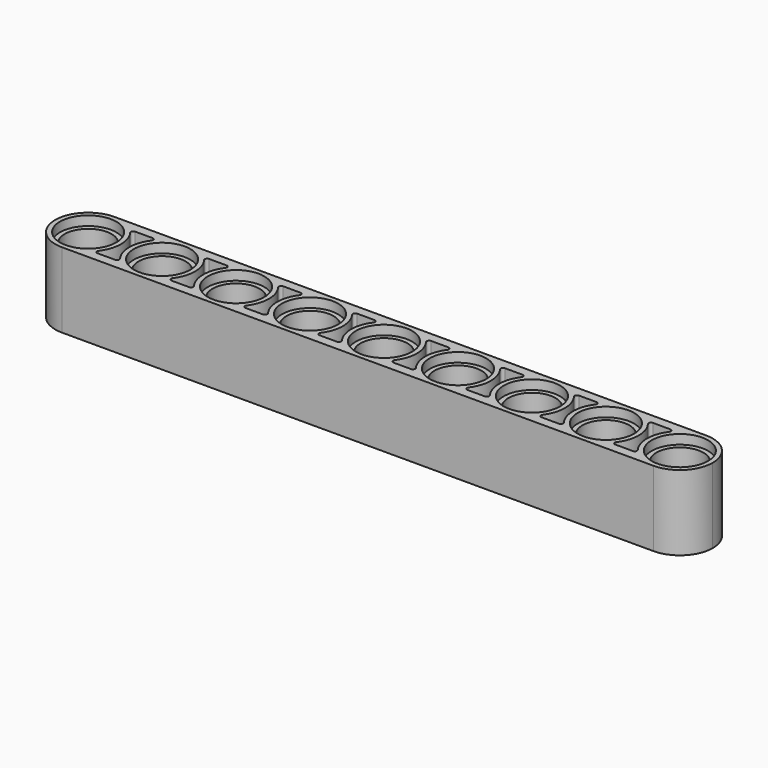
from build123d import *

# Parameters (mm, degrees)
F1_DEPTH  = 8
F2_R      = 2.5
F3_DEPTH  = 25
F2_R_2    = 3
F4_DEPTH  = 1
F5_R      = 3
F6_DEPTH  = 1
F8_DEPTH  = 8
F9_DEPTH  = 4
F10_DEPTH = 3


with BuildPart() as f1:
    # F0 (on Top) → F1 (new body)
    with BuildSketch(Plane.XY):
        with BuildLine():
            ThreePointArc((-40.673092, -45.322508), (-38.198218, -44.297382), (-37.173092, -41.822508))
            ThreePointArc((-37.173092, -41.822508), (-38.198218, -39.347634), (-40.673092, -38.322508))
            ThreePointArc((-40.673092, -38.322508), (-44.173092, -41.822508), (-40.673092, -45.322508))
        make_face()
        with BuildLine():
            Line((18.826908, -41.822508), (-37.173092, -41.822508))
            ThreePointArc((-37.173092, -41.822508), (-38.198218, -44.297382), (-40.673092, -45.322508))
            Line((-40.673092, -45.322508), (22.326908, -45.322508))
            ThreePointArc((22.326908, -45.322508), (19.852034, -44.297382), (18.826908, -41.822508))
        make_face()
        with BuildLine():
            ThreePointArc((-40.673092, -38.322508), (-38.198218, -39.347634), (-37.173092, -41.822508))
            Line((-37.173092, -41.822508), (18.826908, -41.822508))
            ThreePointArc((18.826908, -41.822508), (19.852034, -39.347634), (22.326908, -38.322508))
            Line((22.326908, -38.322508), (-40.673092, -38.322508))
        make_face()
        with BuildLine():
            ThreePointArc((22.326908, -38.322508), (19.852034, -39.347634), (18.826908, -41.822508))
            ThreePointArc((18.826908, -41.822508), (19.852034, -44.297382), (22.326908, -45.322508))
            ThreePointArc((22.326908, -45.322508), (24.801782, -44.297382), (25.826908, -41.822508))
            ThreePointArc((25.826908, -41.822508), (24.801782, -39.347634), (22.326908, -38.322508))
        make_face()
    extrude(amount=F1_DEPTH)

    # F2 (on face) → F3 (cut)
    with BuildSketch(Plane(origin=(0, 0, 0), x_dir=(1, 0, 0), z_dir=(0, 0, -1))):
        with Locations((-40.673092, 41.822508)):
            Circle(F2_R)
        with Locations((-32.798092, 41.822508)):
            Circle(F2_R)
        with Locations((-24.923092, 41.822508)):
            Circle(F2_R)
        with Locations((-17.048092, 41.822508)):
            Circle(F2_R)
        with Locations((-9.173092, 41.822508)):
            Circle(F2_R)
        with Locations((-1.298092, 41.822508)):
            Circle(F2_R)
        with Locations((6.576908, 41.822508)):
            Circle(F2_R)
        with Locations((14.451908, 41.822508)):
            Circle(F2_R)
        with Locations((22.326908, 41.822508)):
            Circle(F2_R)
    extrude(amount=-F3_DEPTH, mode=Mode.SUBTRACT)

    # F2 (on face) → F4 (cut)
    with BuildSketch(Plane(origin=(0, 0, 0), x_dir=(1, 0, 0), z_dir=(0, 0, -1))):
        with Locations((-40.673092, 41.822508)):
            Circle(F2_R_2)
        with Locations((-40.673092, 41.822508)):
            Circle(F2_R, mode=Mode.SUBTRACT)
        with Locations((-32.798092, 41.822508)):
            Circle(F2_R_2)
        with Locations((-32.798092, 41.822508)):
            Circle(F2_R, mode=Mode.SUBTRACT)
        with Locations((-24.923092, 41.822508)):
            Circle(F2_R_2)
        with Locations((-24.923092, 41.822508)):
            Circle(F2_R, mode=Mode.SUBTRACT)
        with Locations((-17.048092, 41.822508)):
            Circle(F2_R_2)
        with Locations((-17.048092, 41.822508)):
            Circle(F2_R, mode=Mode.SUBTRACT)
        with Locations((-9.173092, 41.822508)):
            Circle(F2_R_2)
        with Locations((-9.173092, 41.822508)):
            Circle(F2_R, mode=Mode.SUBTRACT)
        with Locations((-1.298092, 41.822508)):
            Circle(F2_R_2)
        with Locations((-1.298092, 41.822508)):
            Circle(F2_R, mode=Mode.SUBTRACT)
        with Locations((6.576908, 41.822508)):
            Circle(F2_R_2)
        with Locations((6.576908, 41.822508)):
            Circle(F2_R, mode=Mode.SUBTRACT)
        with Locations((14.451908, 41.822508)):
            Circle(F2_R_2)
        with Locations((14.451908, 41.822508)):
            Circle(F2_R, mode=Mode.SUBTRACT)
        with Locations((22.326908, 41.822508)):
            Circle(F2_R_2)
        with Locations((22.326908, 41.822508)):
            Circle(F2_R, mode=Mode.SUBTRACT)
    extrude(amount=-F4_DEPTH, mode=Mode.SUBTRACT)

    # F5 (on face) → F6 (cut)
    with BuildSketch(Plane.XY.offset(8)):
        with Locations((22.326908, -41.822508)):
            Circle(F5_R)
        with Locations((14.451908, -41.822508)):
            Circle(F5_R)
        with Locations((6.576908, -41.822508)):
            Circle(F5_R)
        with Locations((-1.298092, -41.822508)):
            Circle(F5_R)
        with Locations((-9.173092, -41.822508)):
            Circle(F5_R)
        with Locations((-17.048092, -41.822508)):
            Circle(F5_R)
        with Locations((-24.923092, -41.822508)):
            Circle(F5_R)
        with Locations((-32.798092, -41.822508)):
            Circle(F5_R)
        with Locations((-40.673092, -41.822508)):
            Circle(F5_R)
    extrude(amount=-F6_DEPTH, mode=Mode.SUBTRACT)

    # F7 (on face) → F8 (cut)
    with BuildSketch(Plane.XY.offset(8)):
        with BuildLine():
            ThreePointArc((19.523951, -43.918559), (18.826908, -41.822508), (19.523951, -39.726457))
            ThreePointArc((19.523951, -39.726457), (19.547514, -39.462008), (19.32162, -39.322508))
            Line((19.32162, -39.322508), (17.457196, -39.322508))
            ThreePointArc((17.457196, -39.322508), (17.231302, -39.462008), (17.254865, -39.726457))
            ThreePointArc((17.254865, -39.726457), (17.951908, -41.822508), (17.254865, -43.918559))
            ThreePointArc((17.254865, -43.918559), (17.231302, -44.183008), (17.457196, -44.322508))
            Line((17.457196, -44.322508), (19.32162, -44.322508))
            ThreePointArc((19.32162, -44.322508), (19.547514, -44.183008), (19.523951, -43.918559))
        make_face()
        with BuildLine():
            ThreePointArc((11.648951, -43.918559), (10.951908, -41.822508), (11.648951, -39.726457))
            ThreePointArc((11.648951, -39.726457), (11.672514, -39.462008), (11.44662, -39.322508))
            Line((11.44662, -39.322508), (9.582196, -39.322508))
            ThreePointArc((9.582196, -39.322508), (9.356302, -39.462008), (9.379865, -39.726457))
            ThreePointArc((9.379865, -39.726457), (10.076908, -41.822508), (9.379865, -43.918559))
            ThreePointArc((9.379865, -43.918559), (9.356302, -44.183008), (9.582196, -44.322508))
            Line((9.582196, -44.322508), (11.44662, -44.322508))
            ThreePointArc((11.44662, -44.322508), (11.672514, -44.183008), (11.648951, -43.918559))
        make_face()
        with BuildLine():
            ThreePointArc((3.773951, -43.918559), (3.076908, -41.822508), (3.773951, -39.726457))
            ThreePointArc((3.773951, -39.726457), (3.797514, -39.462008), (3.57162, -39.322508))
            Line((3.57162, -39.322508), (1.707196, -39.322508))
            ThreePointArc((1.707196, -39.322508), (1.481302, -39.462008), (1.504865, -39.726457))
            ThreePointArc((1.504865, -39.726457), (2.201908, -41.822508), (1.504865, -43.918559))
            ThreePointArc((1.504865, -43.918559), (1.481302, -44.183008), (1.707196, -44.322508))
            Line((1.707196, -44.322508), (3.57162, -44.322508))
            ThreePointArc((3.57162, -44.322508), (3.797514, -44.183008), (3.773951, -43.918559))
        make_face()
        with BuildLine():
            ThreePointArc((-4.101049, -43.918559), (-4.798092, -41.822508), (-4.101049, -39.726457))
            ThreePointArc((-4.101049, -39.726457), (-4.077486, -39.462008), (-4.30338, -39.322508))
            Line((-4.30338, -39.322508), (-6.167804, -39.322508))
            ThreePointArc((-6.167804, -39.322508), (-6.393698, -39.462008), (-6.370135, -39.726457))
            ThreePointArc((-6.370135, -39.726457), (-5.673092, -41.822508), (-6.370135, -43.918559))
            ThreePointArc((-6.370135, -43.918559), (-6.393698, -44.183008), (-6.167804, -44.322508))
            Line((-6.167804, -44.322508), (-4.30338, -44.322508))
            ThreePointArc((-4.30338, -44.322508), (-4.077486, -44.183008), (-4.101049, -43.918559))
        make_face()
        with BuildLine():
            ThreePointArc((-11.976049, -43.918559), (-12.673092, -41.822508), (-11.976049, -39.726457))
            ThreePointArc((-11.976049, -39.726457), (-11.952486, -39.462008), (-12.17838, -39.322508))
            Line((-12.17838, -39.322508), (-14.042804, -39.322508))
            ThreePointArc((-14.042804, -39.322508), (-14.268698, -39.462008), (-14.245135, -39.726457))
            ThreePointArc((-14.245135, -39.726457), (-13.548092, -41.822508), (-14.245135, -43.918559))
            ThreePointArc((-14.245135, -43.918559), (-14.268698, -44.183008), (-14.042804, -44.322508))
            Line((-14.042804, -44.322508), (-12.17838, -44.322508))
            ThreePointArc((-12.17838, -44.322508), (-11.952486, -44.183008), (-11.976049, -43.918559))
        make_face()
        with BuildLine():
            ThreePointArc((-19.851049, -43.918559), (-20.548092, -41.822508), (-19.851049, -39.726457))
            ThreePointArc((-19.851049, -39.726457), (-19.827486, -39.462008), (-20.05338, -39.322508))
            Line((-20.05338, -39.322508), (-21.917804, -39.322508))
            ThreePointArc((-21.917804, -39.322508), (-22.143698, -39.462008), (-22.120135, -39.726457))
            ThreePointArc((-22.120135, -39.726457), (-21.423092, -41.822508), (-22.120135, -43.918559))
            ThreePointArc((-22.120135, -43.918559), (-22.143698, -44.183008), (-21.917804, -44.322508))
            Line((-21.917804, -44.322508), (-20.05338, -44.322508))
            ThreePointArc((-20.05338, -44.322508), (-19.827486, -44.183008), (-19.851049, -43.918559))
        make_face()
        with BuildLine():
            ThreePointArc((-35.601049, -43.918559), (-36.298092, -41.822508), (-35.601049, -39.726457))
            ThreePointArc((-35.601049, -39.726457), (-35.577486, -39.462008), (-35.80338, -39.322508))
            Line((-35.80338, -39.322508), (-37.667804, -39.322508))
            ThreePointArc((-37.667804, -39.322508), (-37.893698, -39.462008), (-37.870135, -39.726457))
            ThreePointArc((-37.870135, -39.726457), (-37.173092, -41.822508), (-37.870135, -43.918559))
            ThreePointArc((-37.870135, -43.918559), (-37.893698, -44.183008), (-37.667804, -44.322508))
            Line((-37.667804, -44.322508), (-35.80338, -44.322508))
            ThreePointArc((-35.80338, -44.322508), (-35.577486, -44.183008), (-35.601049, -43.918559))
        make_face()
        with BuildLine():
            ThreePointArc((-27.726049, -43.918559), (-28.423092, -41.822508), (-27.726049, -39.726457))
            ThreePointArc((-27.726049, -39.726457), (-27.702486, -39.462008), (-27.92838, -39.322508))
            Line((-27.92838, -39.322508), (-29.792804, -39.322508))
            ThreePointArc((-29.792804, -39.322508), (-30.018698, -39.462008), (-29.995135, -39.726457))
            ThreePointArc((-29.995135, -39.726457), (-29.298092, -41.822508), (-29.995135, -43.918559))
            ThreePointArc((-29.995135, -43.918559), (-30.018698, -44.183008), (-29.792804, -44.322508))
            Line((-29.792804, -44.322508), (-27.92838, -44.322508))
            ThreePointArc((-27.92838, -44.322508), (-27.702486, -44.183008), (-27.726049, -43.918559))
        make_face()
    extrude(amount=-F8_DEPTH, mode=Mode.SUBTRACT)

    # F7 (on face) → F9 (join)
    with BuildSketch(Plane.XY.offset(8)):
        with BuildLine():
            ThreePointArc((19.523951, -43.918559), (18.826908, -41.822508), (19.523951, -39.726457))
            ThreePointArc((19.523951, -39.726457), (19.547514, -39.462008), (19.32162, -39.322508))
            Line((19.32162, -39.322508), (17.457196, -39.322508))
            ThreePointArc((17.457196, -39.322508), (17.231302, -39.462008), (17.254865, -39.726457))
            ThreePointArc((17.254865, -39.726457), (17.951908, -41.822508), (17.254865, -43.918559))
            ThreePointArc((17.254865, -43.918559), (17.231302, -44.183008), (17.457196, -44.322508))
            Line((17.457196, -44.322508), (19.32162, -44.322508))
            ThreePointArc((19.32162, -44.322508), (19.547514, -44.183008), (19.523951, -43.918559))
        make_face()
        with BuildLine():
            ThreePointArc((11.648951, -43.918559), (10.951908, -41.822508), (11.648951, -39.726457))
            ThreePointArc((11.648951, -39.726457), (11.672514, -39.462008), (11.44662, -39.322508))
            Line((11.44662, -39.322508), (9.582196, -39.322508))
            ThreePointArc((9.582196, -39.322508), (9.356302, -39.462008), (9.379865, -39.726457))
            ThreePointArc((9.379865, -39.726457), (10.076908, -41.822508), (9.379865, -43.918559))
            ThreePointArc((9.379865, -43.918559), (9.356302, -44.183008), (9.582196, -44.322508))
            Line((9.582196, -44.322508), (11.44662, -44.322508))
            ThreePointArc((11.44662, -44.322508), (11.672514, -44.183008), (11.648951, -43.918559))
        make_face()
        with BuildLine():
            ThreePointArc((3.773951, -43.918559), (3.076908, -41.822508), (3.773951, -39.726457))
            ThreePointArc((3.773951, -39.726457), (3.797514, -39.462008), (3.57162, -39.322508))
            Line((3.57162, -39.322508), (1.707196, -39.322508))
            ThreePointArc((1.707196, -39.322508), (1.481302, -39.462008), (1.504865, -39.726457))
            ThreePointArc((1.504865, -39.726457), (2.201908, -41.822508), (1.504865, -43.918559))
            ThreePointArc((1.504865, -43.918559), (1.481302, -44.183008), (1.707196, -44.322508))
            Line((1.707196, -44.322508), (3.57162, -44.322508))
            ThreePointArc((3.57162, -44.322508), (3.797514, -44.183008), (3.773951, -43.918559))
        make_face()
        with BuildLine():
            ThreePointArc((-4.101049, -43.918559), (-4.798092, -41.822508), (-4.101049, -39.726457))
            ThreePointArc((-4.101049, -39.726457), (-4.077486, -39.462008), (-4.30338, -39.322508))
            Line((-4.30338, -39.322508), (-6.167804, -39.322508))
            ThreePointArc((-6.167804, -39.322508), (-6.393698, -39.462008), (-6.370135, -39.726457))
            ThreePointArc((-6.370135, -39.726457), (-5.673092, -41.822508), (-6.370135, -43.918559))
            ThreePointArc((-6.370135, -43.918559), (-6.393698, -44.183008), (-6.167804, -44.322508))
            Line((-6.167804, -44.322508), (-4.30338, -44.322508))
            ThreePointArc((-4.30338, -44.322508), (-4.077486, -44.183008), (-4.101049, -43.918559))
        make_face()
        with BuildLine():
            ThreePointArc((-11.976049, -43.918559), (-12.673092, -41.822508), (-11.976049, -39.726457))
            ThreePointArc((-11.976049, -39.726457), (-11.952486, -39.462008), (-12.17838, -39.322508))
            Line((-12.17838, -39.322508), (-14.042804, -39.322508))
            ThreePointArc((-14.042804, -39.322508), (-14.268698, -39.462008), (-14.245135, -39.726457))
            ThreePointArc((-14.245135, -39.726457), (-13.548092, -41.822508), (-14.245135, -43.918559))
            ThreePointArc((-14.245135, -43.918559), (-14.268698, -44.183008), (-14.042804, -44.322508))
            Line((-14.042804, -44.322508), (-12.17838, -44.322508))
            ThreePointArc((-12.17838, -44.322508), (-11.952486, -44.183008), (-11.976049, -43.918559))
        make_face()
        with BuildLine():
            ThreePointArc((-19.851049, -43.918559), (-20.548092, -41.822508), (-19.851049, -39.726457))
            ThreePointArc((-19.851049, -39.726457), (-19.827486, -39.462008), (-20.05338, -39.322508))
            Line((-20.05338, -39.322508), (-21.917804, -39.322508))
            ThreePointArc((-21.917804, -39.322508), (-22.143698, -39.462008), (-22.120135, -39.726457))
            ThreePointArc((-22.120135, -39.726457), (-21.423092, -41.822508), (-22.120135, -43.918559))
            ThreePointArc((-22.120135, -43.918559), (-22.143698, -44.183008), (-21.917804, -44.322508))
            Line((-21.917804, -44.322508), (-20.05338, -44.322508))
            ThreePointArc((-20.05338, -44.322508), (-19.827486, -44.183008), (-19.851049, -43.918559))
        make_face()
        with BuildLine():
            ThreePointArc((-27.726049, -43.918559), (-28.423092, -41.822508), (-27.726049, -39.726457))
            ThreePointArc((-27.726049, -39.726457), (-27.702486, -39.462008), (-27.92838, -39.322508))
            Line((-27.92838, -39.322508), (-29.792804, -39.322508))
            ThreePointArc((-29.792804, -39.322508), (-30.018698, -39.462008), (-29.995135, -39.726457))
            ThreePointArc((-29.995135, -39.726457), (-29.298092, -41.822508), (-29.995135, -43.918559))
            ThreePointArc((-29.995135, -43.918559), (-30.018698, -44.183008), (-29.792804, -44.322508))
            Line((-29.792804, -44.322508), (-27.92838, -44.322508))
            ThreePointArc((-27.92838, -44.322508), (-27.702486, -44.183008), (-27.726049, -43.918559))
        make_face()
        with BuildLine():
            ThreePointArc((-35.601049, -43.918559), (-36.298092, -41.822508), (-35.601049, -39.726457))
            ThreePointArc((-35.601049, -39.726457), (-35.577486, -39.462008), (-35.80338, -39.322508))
            Line((-35.80338, -39.322508), (-37.667804, -39.322508))
            ThreePointArc((-37.667804, -39.322508), (-37.893698, -39.462008), (-37.870135, -39.726457))
            ThreePointArc((-37.870135, -39.726457), (-37.173092, -41.822508), (-37.870135, -43.918559))
            ThreePointArc((-37.870135, -43.918559), (-37.893698, -44.183008), (-37.667804, -44.322508))
            Line((-37.667804, -44.322508), (-35.80338, -44.322508))
            ThreePointArc((-35.80338, -44.322508), (-35.577486, -44.183008), (-35.601049, -43.918559))
        make_face()
    extrude(amount=-F9_DEPTH)

    # F7 (on face) → F10 (cut)
    with BuildSketch(Plane.XY.offset(8)):
        with BuildLine():
            ThreePointArc((19.523951, -43.918559), (18.826908, -41.822508), (19.523951, -39.726457))
            ThreePointArc((19.523951, -39.726457), (19.547514, -39.462008), (19.32162, -39.322508))
            Line((19.32162, -39.322508), (17.457196, -39.322508))
            ThreePointArc((17.457196, -39.322508), (17.231302, -39.462008), (17.254865, -39.726457))
            ThreePointArc((17.254865, -39.726457), (17.951908, -41.822508), (17.254865, -43.918559))
            ThreePointArc((17.254865, -43.918559), (17.231302, -44.183008), (17.457196, -44.322508))
            Line((17.457196, -44.322508), (19.32162, -44.322508))
            ThreePointArc((19.32162, -44.322508), (19.547514, -44.183008), (19.523951, -43.918559))
        make_face()
        with BuildLine():
            ThreePointArc((11.648951, -43.918559), (10.951908, -41.822508), (11.648951, -39.726457))
            ThreePointArc((11.648951, -39.726457), (11.672514, -39.462008), (11.44662, -39.322508))
            Line((11.44662, -39.322508), (9.582196, -39.322508))
            ThreePointArc((9.582196, -39.322508), (9.356302, -39.462008), (9.379865, -39.726457))
            ThreePointArc((9.379865, -39.726457), (10.076908, -41.822508), (9.379865, -43.918559))
            ThreePointArc((9.379865, -43.918559), (9.356302, -44.183008), (9.582196, -44.322508))
            Line((9.582196, -44.322508), (11.44662, -44.322508))
            ThreePointArc((11.44662, -44.322508), (11.672514, -44.183008), (11.648951, -43.918559))
        make_face()
        with BuildLine():
            ThreePointArc((3.773951, -43.918559), (3.076908, -41.822508), (3.773951, -39.726457))
            ThreePointArc((3.773951, -39.726457), (3.797514, -39.462008), (3.57162, -39.322508))
            Line((3.57162, -39.322508), (1.707196, -39.322508))
            ThreePointArc((1.707196, -39.322508), (1.481302, -39.462008), (1.504865, -39.726457))
            ThreePointArc((1.504865, -39.726457), (2.201908, -41.822508), (1.504865, -43.918559))
            ThreePointArc((1.504865, -43.918559), (1.481302, -44.183008), (1.707196, -44.322508))
            Line((1.707196, -44.322508), (3.57162, -44.322508))
            ThreePointArc((3.57162, -44.322508), (3.797514, -44.183008), (3.773951, -43.918559))
        make_face()
        with BuildLine():
            ThreePointArc((-4.101049, -43.918559), (-4.798092, -41.822508), (-4.101049, -39.726457))
            ThreePointArc((-4.101049, -39.726457), (-4.077486, -39.462008), (-4.30338, -39.322508))
            Line((-4.30338, -39.322508), (-6.167804, -39.322508))
            ThreePointArc((-6.167804, -39.322508), (-6.393698, -39.462008), (-6.370135, -39.726457))
            ThreePointArc((-6.370135, -39.726457), (-5.673092, -41.822508), (-6.370135, -43.918559))
            ThreePointArc((-6.370135, -43.918559), (-6.393698, -44.183008), (-6.167804, -44.322508))
            Line((-6.167804, -44.322508), (-4.30338, -44.322508))
            ThreePointArc((-4.30338, -44.322508), (-4.077486, -44.183008), (-4.101049, -43.918559))
        make_face()
        with BuildLine():
            ThreePointArc((-11.976049, -43.918559), (-12.673092, -41.822508), (-11.976049, -39.726457))
            ThreePointArc((-11.976049, -39.726457), (-11.952486, -39.462008), (-12.17838, -39.322508))
            Line((-12.17838, -39.322508), (-14.042804, -39.322508))
            ThreePointArc((-14.042804, -39.322508), (-14.268698, -39.462008), (-14.245135, -39.726457))
            ThreePointArc((-14.245135, -39.726457), (-13.548092, -41.822508), (-14.245135, -43.918559))
            ThreePointArc((-14.245135, -43.918559), (-14.268698, -44.183008), (-14.042804, -44.322508))
            Line((-14.042804, -44.322508), (-12.17838, -44.322508))
            ThreePointArc((-12.17838, -44.322508), (-11.952486, -44.183008), (-11.976049, -43.918559))
        make_face()
        with BuildLine():
            ThreePointArc((-19.851049, -43.918559), (-20.548092, -41.822508), (-19.851049, -39.726457))
            ThreePointArc((-19.851049, -39.726457), (-19.827486, -39.462008), (-20.05338, -39.322508))
            Line((-20.05338, -39.322508), (-21.917804, -39.322508))
            ThreePointArc((-21.917804, -39.322508), (-22.143698, -39.462008), (-22.120135, -39.726457))
            ThreePointArc((-22.120135, -39.726457), (-21.423092, -41.822508), (-22.120135, -43.918559))
            ThreePointArc((-22.120135, -43.918559), (-22.143698, -44.183008), (-21.917804, -44.322508))
            Line((-21.917804, -44.322508), (-20.05338, -44.322508))
            ThreePointArc((-20.05338, -44.322508), (-19.827486, -44.183008), (-19.851049, -43.918559))
        make_face()
        with BuildLine():
            ThreePointArc((-27.726049, -43.918559), (-28.423092, -41.822508), (-27.726049, -39.726457))
            ThreePointArc((-27.726049, -39.726457), (-27.702486, -39.462008), (-27.92838, -39.322508))
            Line((-27.92838, -39.322508), (-29.792804, -39.322508))
            ThreePointArc((-29.792804, -39.322508), (-30.018698, -39.462008), (-29.995135, -39.726457))
            ThreePointArc((-29.995135, -39.726457), (-29.298092, -41.822508), (-29.995135, -43.918559))
            ThreePointArc((-29.995135, -43.918559), (-30.018698, -44.183008), (-29.792804, -44.322508))
            Line((-29.792804, -44.322508), (-27.92838, -44.322508))
            ThreePointArc((-27.92838, -44.322508), (-27.702486, -44.183008), (-27.726049, -43.918559))
        make_face()
        with BuildLine():
            ThreePointArc((-35.601049, -43.918559), (-36.298092, -41.822508), (-35.601049, -39.726457))
            ThreePointArc((-35.601049, -39.726457), (-35.577486, -39.462008), (-35.80338, -39.322508))
            Line((-35.80338, -39.322508), (-37.667804, -39.322508))
            ThreePointArc((-37.667804, -39.322508), (-37.893698, -39.462008), (-37.870135, -39.726457))
            ThreePointArc((-37.870135, -39.726457), (-37.173092, -41.822508), (-37.870135, -43.918559))
            ThreePointArc((-37.870135, -43.918559), (-37.893698, -44.183008), (-37.667804, -44.322508))
            Line((-37.667804, -44.322508), (-35.80338, -44.322508))
            ThreePointArc((-35.80338, -44.322508), (-35.577486, -44.183008), (-35.601049, -43.918559))
        make_face()
    extrude(amount=-F10_DEPTH, mode=Mode.SUBTRACT)


solid = f1.part
